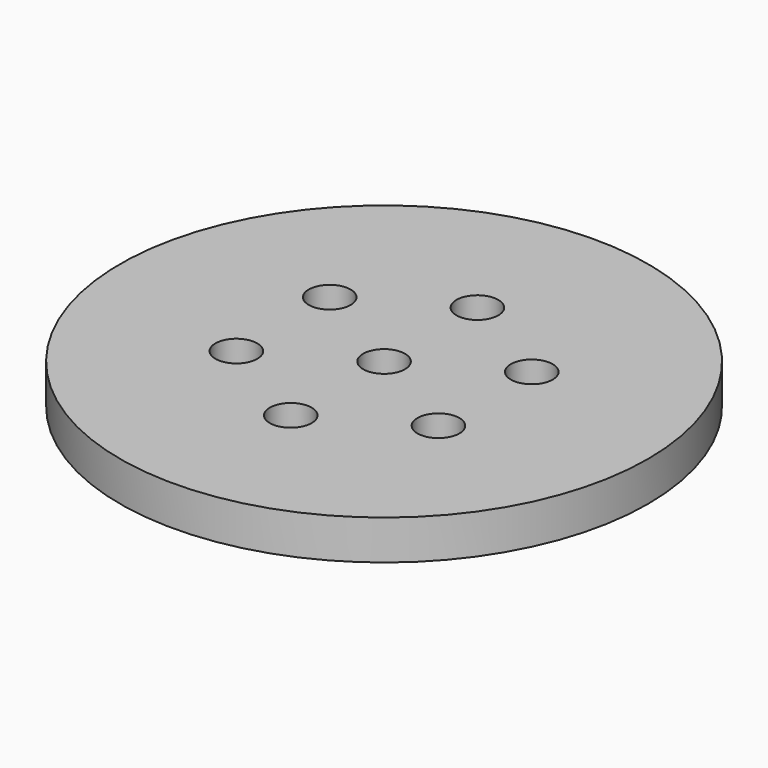
from build123d import *

# Parameters (mm, degrees)
F0_R     = 20
F0_R_2   = 1.5875
F1_DEPTH = 3


with BuildPart() as f1:
    # F0 (on Top) → F1 (new body)
    with BuildSketch(Plane.XY):
        with Locations((-36.162619, 9.984028)):
            Circle(F0_R)
        with Locations((-43.817643, 5.564397)):
            Circle(F0_R_2, mode=Mode.SUBTRACT)
        with Locations((-36.162619, 1.144767)):
            Circle(F0_R_2, mode=Mode.SUBTRACT)
        with Locations((-28.507594, 5.564397)):
            Circle(F0_R_2, mode=Mode.SUBTRACT)
        with Locations((-43.817643, 14.403658)):
            Circle(F0_R_2, mode=Mode.SUBTRACT)
        with Locations((-36.162619, 9.984028)):
            Circle(F0_R_2, mode=Mode.SUBTRACT)
        with Locations((-28.507594, 14.403658)):
            Circle(F0_R_2, mode=Mode.SUBTRACT)
        with Locations((-36.162619, 18.823288)):
            Circle(F0_R_2, mode=Mode.SUBTRACT)
    extrude(amount=F1_DEPTH)


solid = f1.part
